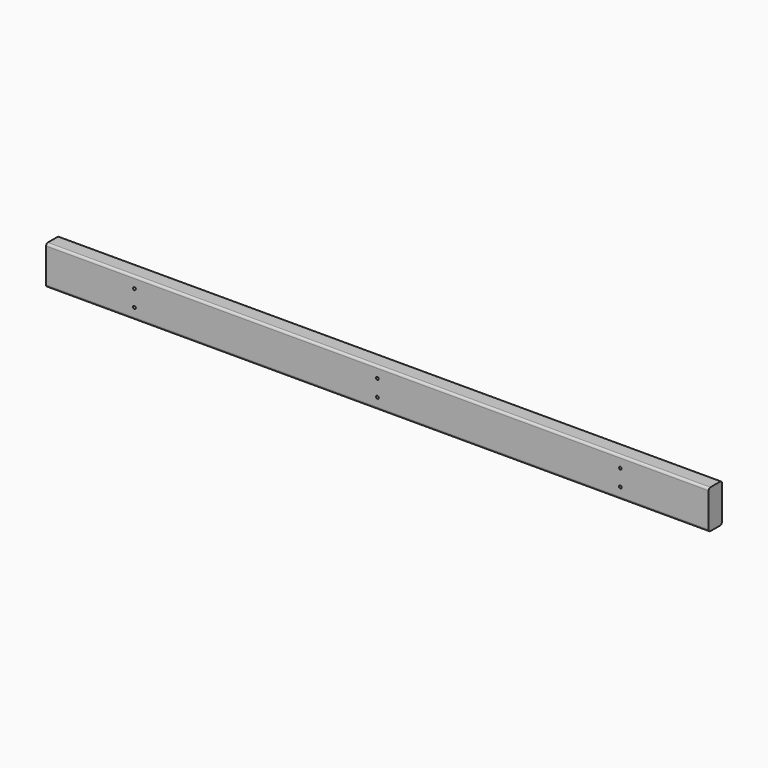
from build123d import *

# Parameters (mm, degrees)
F0_W     = 38.1
F0_H     = 88.9
F1_DEPTH = 762
F3_D     = 6.35
F4_R     = 5.08
F6_D     = 6.35


with BuildPart() as f1:
    # F0 (on Right) → F1 (new body, symmetric)
    with BuildSketch(Plane.YZ):
        Rectangle(F0_W, F0_H)
    extrude(amount=F1_DEPTH, both=True)

    # F3 (through all)
    with Locations(Plane.XZ.offset(19.05)):
        with Locations((-558.8, 19.05), (-558.8, -19.05), (558.8, -19.05), (558.8, 19.05)):
            Hole(F3_D / 2)

    # F4
    f4_edges = [f1.edges().sort_by_distance(p)[0] for p in [
        (0, -19.05, 44.45),
        (0, 19.05, 44.45),
        (0, 19.05, -44.45),
        (0, -19.05, -44.45),
    ]]
    fillet(f4_edges, radius=F4_R)

    # F6 (through all)
    with Locations(Plane.XZ.offset(19.05)):
        with Locations((0, 19.05), (0, -19.05)):
            Hole(F6_D / 2)


solid = f1.part
